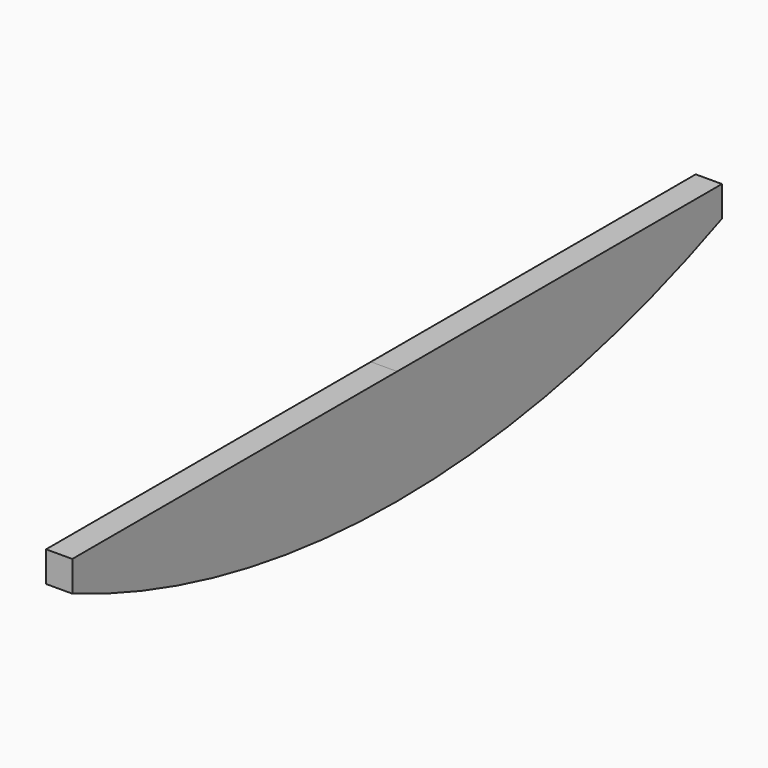
from build123d import *

# Parameters (mm, degrees)
F0_DEPTH = 38.1


with BuildPart() as f0:
    # F2 (on Right) → F0 (new body)
    with BuildSketch(Plane.YZ):
        with BuildLine():
            Line((0, 0), (-590.55, 0))
            Line((-590.55, 0), (-590.55, -44.45))
            ThreePointArc((-590.55, -44.45), (0, -166.226991), (590.55, -44.45))
            Line((590.55, -44.45), (590.55, 0))
            Line((590.55, 0), (0.01061, 0))
            Line((0.01061, 0), (0.01061, -0.003131))
            Line((0.01061, -0.003131), (0, 0))
        make_face()
    extrude(amount=F0_DEPTH)


solid = f0.part
